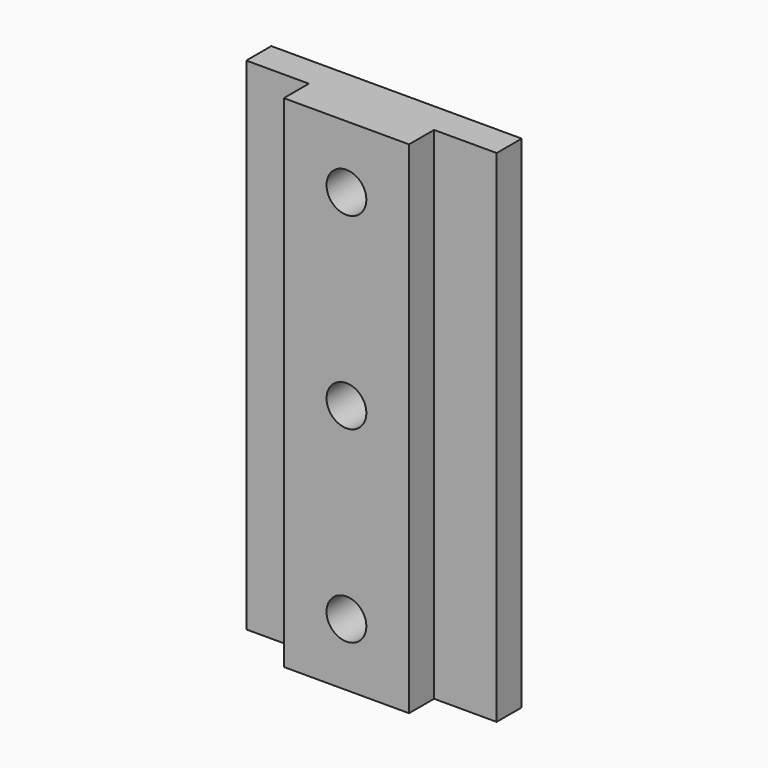
from build123d import *

# Parameters (mm, degrees)
F0_W     = 25.4
F0_H     = 50.8
F1_DEPTH = 6.35
F2_W     = 6.35
F2_H     = 50.8
F3_DEPTH = 3.175
F4_R     = 2.0193
F5_DEPTH = 6.351


with BuildPart() as f1:
    # F0 (on Front) → F1 (new body)
    with BuildSketch(Plane.XZ):
        Rectangle(F0_W, F0_H)
    extrude(amount=F1_DEPTH)

    # F2 (on face) → F3 (cut)
    with BuildSketch(Plane.XZ.offset(6.35)):
        with Locations((-9.525, 0)):
            Rectangle(F2_W, F2_H)
        with Locations((9.525, 0)):
            Rectangle(F2_W, F2_H)
    extrude(amount=-F3_DEPTH, mode=Mode.SUBTRACT)

    # F4 (on face) → F5 (cut, through all)
    with BuildSketch(Plane.XZ.offset(6.35)):
        Circle(F4_R)
        with Locations((0, 19.05)):
            Circle(F4_R)
        with Locations((0, -19.05)):
            Circle(F4_R)
    extrude(amount=-F5_DEPTH, mode=Mode.SUBTRACT)


solid = f1.part
